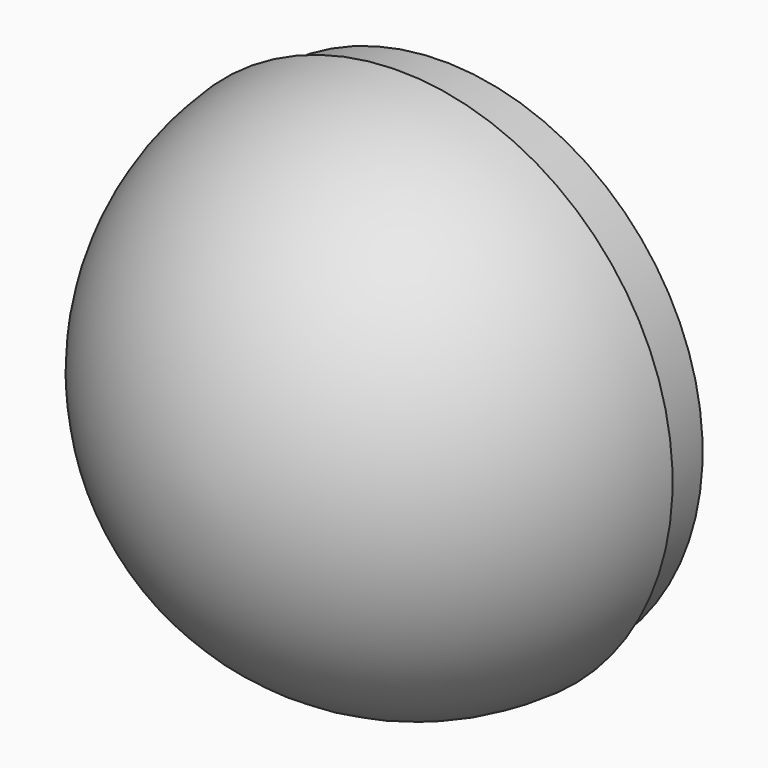
from build123d import *

# Parameters (mm, degrees)
F2_R     = 38
F2_R_2   = 36
F3_DEPTH = 8


with BuildPart() as f1:
    # F0 (on Top) → F1 (revolve)
    with BuildSketch(Plane.XY):
        with BuildLine():
            ThreePointArc((0, -33), (-24.4182308941, -23.50170643), (-36, 0))
            Line((-36, 0), (-40, 0))
            ThreePointArc((-40, 0), (-27.2442654517, -26.3316383261), (0, -37))
            Line((0, -37), (0, -33))
        make_face()
    revolve(axis=Axis((0, -35, 0), (0, -1, 0)))

    # F2 (on face) → F3 (join)
    with BuildSketch(Plane(origin=(0, 0, 0), x_dir=(-1, 0, 0), z_dir=(0, 1, 0))):
        Circle(F2_R)
        Circle(F2_R_2, mode=Mode.SUBTRACT)
    extrude(amount=F3_DEPTH)


solid = f1.part
